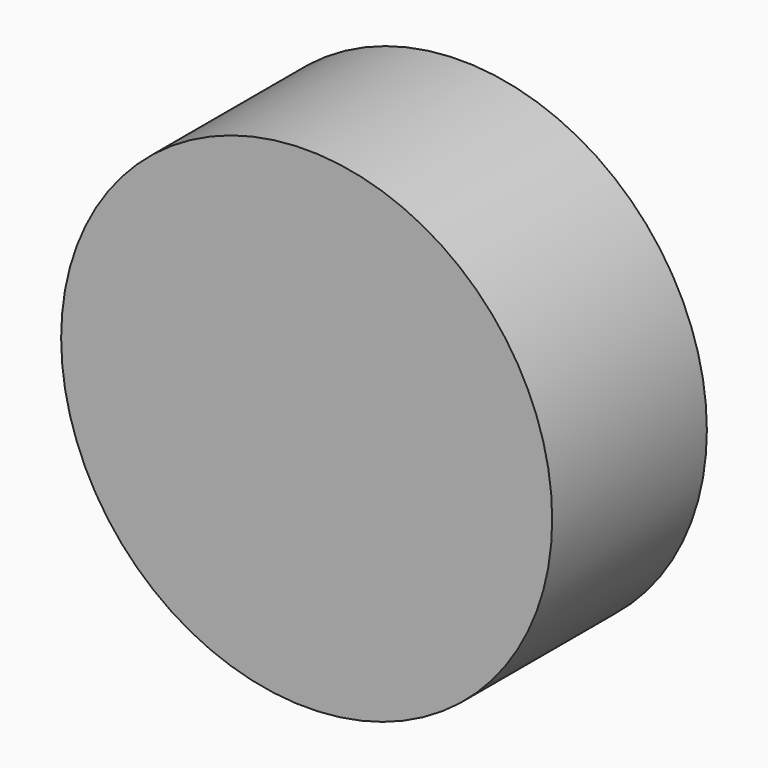
from build123d import *

# Parameters (mm, degrees)
F0_R     = 25.4
F0_R_2   = 22.86
F1_DEPTH = 20
F2_DEPTH = 10


with BuildPart() as f1:
    # F0 (on Front) → F1 (new body)
    with BuildSketch(Plane.XZ):
        Circle(F0_R)
        Circle(F0_R_2, mode=Mode.SUBTRACT)
        Circle(F0_R_2)
        with BuildLine():
            ThreePointArc((6, 11.1933015683), (10.8970179407, 6.5226528345), (12.7, 0))
            ThreePointArc((12.7, 0), (10.8970179407, -6.5226528345), (6, -11.1933015683))
            Line((6, -11.1933015683), (6, -12.7))
            Line((6, -12.7), (12, -12.7))
            Line((12, -12.7), (12, -16.45))
            Line((12, -16.45), (-12, -16.45))
            Line((-12, -16.45), (-12, -12.7))
            Line((-12, -12.7), (-6, -12.7))
            Line((-6, -12.7), (-6, -11.1933015683))
            ThreePointArc((-6, -11.1933015683), (-12.7, 0), (-6, 11.1933015683))
            Line((-6, 11.1933015683), (-6, 12.7))
            Line((-6, 12.7), (-12, 12.7))
            Line((-12, 12.7), (-12, 16.45))
            Line((-12, 16.45), (12, 16.45))
            Line((12, 16.45), (12, 12.7))
            Line((12, 12.7), (6, 12.7))
            Line((6, 12.7), (6, 11.1933015683))
        make_face(mode=Mode.SUBTRACT)
        with BuildLine():
            Line((0, 0), (0, 10.082768018))
            ThreePointArc((0, 10.082768018), (-10.082768018, 0), (0, -10.082768018))
            Line((0, -10.082768018), (0, 0))
        make_face()
        with BuildLine():
            ThreePointArc((10.082768018, 0), (7.1295936387, 7.1295936387), (0, 10.082768018))
            Line((0, 10.082768018), (0, 0))
            Line((0, 0), (0, -10.082768018))
            ThreePointArc((0, -10.082768018), (7.1295936387, -7.1295936387), (10.082768018, 0))
        make_face()
        with BuildLine():
            Line((0, 10.082768018), (0, 12.7))
            ThreePointArc((0, 12.7), (-3.0931432299, 12.3175673312), (-6, 11.1933015683))
            ThreePointArc((-6, 11.1933015683), (-12.7, 0), (-6, -11.1933015683))
            ThreePointArc((-6, -11.1933015683), (-3.0931432299, -12.3175673312), (0, -12.7))
            Line((0, -12.7), (0, -10.082768018))
            ThreePointArc((0, -10.082768018), (-10.082768018, 0), (0, 10.082768018))
        make_face()
        with BuildLine():
            ThreePointArc((6, -11.1933015683), (10.8970179407, -6.5226528345), (12.7, 0))
            ThreePointArc((12.7, 0), (10.8970179407, 6.5226528345), (6, 11.1933015683))
            ThreePointArc((6, 11.1933015683), (3.0931432299, 12.3175673312), (0, 12.7))
            Line((0, 12.7), (0, 10.082768018))
            ThreePointArc((0, 10.082768018), (7.1295936387, 7.1295936387), (10.082768018, 0))
            ThreePointArc((10.082768018, 0), (7.1295936387, -7.1295936387), (0, -10.082768018))
            Line((0, -10.082768018), (0, -12.7))
            ThreePointArc((0, -12.7), (3.0931432299, -12.3175673312), (6, -11.1933015683))
        make_face()
        Polygon((6, -12.7), (0, -12.7), (-6, -12.7), (-12, -12.7), (-12, -16.45), (12, -16.45), (12, -12.7), align=None)
        Polygon((-6, 12.7), (0, 12.7), (6, 12.7), (12, 12.7), (12, 16.45), (-12, 16.45), (-12, 12.7), align=None)
        with BuildLine():
            Line((6, -12.7), (6, -11.1933015683))
            ThreePointArc((6, -11.1933015683), (3.0931432299, -12.3175673312), (0, -12.7))
            Line((0, -12.7), (6, -12.7))
        make_face()
        with BuildLine():
            ThreePointArc((0, 12.7), (3.0931432299, 12.3175673312), (6, 11.1933015683))
            Line((6, 11.1933015683), (6, 12.7))
            Line((6, 12.7), (0, 12.7))
        make_face()
        with BuildLine():
            Line((-6, -12.7), (0, -12.7))
            ThreePointArc((0, -12.7), (-3.0931432299, -12.3175673312), (-6, -11.1933015683))
            Line((-6, -11.1933015683), (-6, -12.7))
        make_face()
        with BuildLine():
            ThreePointArc((-6, 11.1933015683), (-3.0931432299, 12.3175673312), (0, 12.7))
            Line((0, 12.7), (-6, 12.7))
            Line((-6, 12.7), (-6, 11.1933015683))
        make_face()
    extrude(amount=F1_DEPTH)

    # F0 (on Front) → F2 (cut)
    with BuildSketch(Plane.XZ):
        Circle(F0_R_2)
        with BuildLine():
            ThreePointArc((6, 11.1933015683), (10.8970179407, 6.5226528345), (12.7, 0))
            ThreePointArc((12.7, 0), (10.8970179407, -6.5226528345), (6, -11.1933015683))
            Line((6, -11.1933015683), (6, -12.7))
            Line((6, -12.7), (12, -12.7))
            Line((12, -12.7), (12, -16.45))
            Line((12, -16.45), (-12, -16.45))
            Line((-12, -16.45), (-12, -12.7))
            Line((-12, -12.7), (-6, -12.7))
            Line((-6, -12.7), (-6, -11.1933015683))
            ThreePointArc((-6, -11.1933015683), (-12.7, 0), (-6, 11.1933015683))
            Line((-6, 11.1933015683), (-6, 12.7))
            Line((-6, 12.7), (-12, 12.7))
            Line((-12, 12.7), (-12, 16.45))
            Line((-12, 16.45), (12, 16.45))
            Line((12, 16.45), (12, 12.7))
            Line((12, 12.7), (6, 12.7))
            Line((6, 12.7), (6, 11.1933015683))
        make_face(mode=Mode.SUBTRACT)
        with BuildLine():
            Line((0, 0), (0, 10.082768018))
            ThreePointArc((0, 10.082768018), (-10.082768018, 0), (0, -10.082768018))
            Line((0, -10.082768018), (0, 0))
        make_face()
        with BuildLine():
            ThreePointArc((10.082768018, 0), (7.1295936387, 7.1295936387), (0, 10.082768018))
            Line((0, 10.082768018), (0, 0))
            Line((0, 0), (0, -10.082768018))
            ThreePointArc((0, -10.082768018), (7.1295936387, -7.1295936387), (10.082768018, 0))
        make_face()
    extrude(amount=F2_DEPTH, mode=Mode.SUBTRACT)


solid = f1.part
